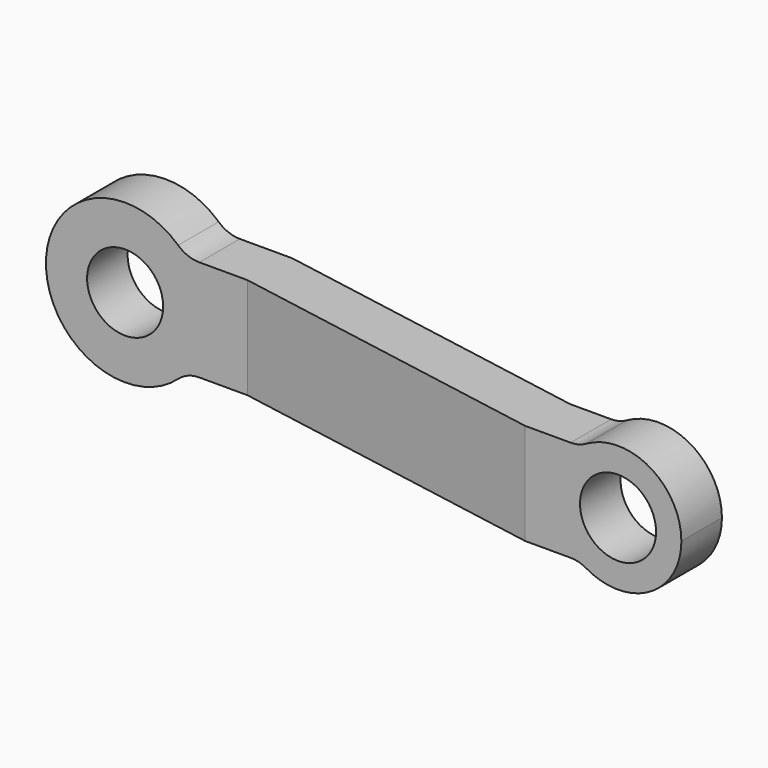
from build123d import *

# Parameters (mm, degrees)
F0_R     = 6
F1_DEPTH = 25
F3_DEPTH = 12.5
F4_R     = 5


with BuildPart() as f1:
    # F0 (on Front) → F1 (new body)
    with BuildSketch(Plane.XZ):
        with BuildLine():
            ThreePointArc((9.604686, -8), (11.753905, -4.253905), (12.5, 0))
            ThreePointArc((12.5, 0), (11.753905, 4.253905), (9.604686, 8))
            ThreePointArc((9.604686, 8), (-12.5, 0), (9.604686, -8))
        make_face()
        Circle(F0_R, mode=Mode.SUBTRACT)
        with BuildLine():
            ThreePointArc((9.604686, 8), (11.753905, 4.253905), (12.5, 0))
            ThreePointArc((12.5, 0), (11.753905, -4.253905), (9.604686, -8))
            Line((9.604686, -8), (79, -8))
            ThreePointArc((79, -8), (75, 0), (79, 8))
            Line((79, 8), (9.604686, 8))
        make_face()
        with BuildLine():
            ThreePointArc((95, 0), (89.472136, 8.944272), (79, 8))
            ThreePointArc((79, 8), (75, 0), (79, -8))
            ThreePointArc((79, -8), (89.472136, -8.944272), (95, 0))
        make_face()
        with Locations((85, 0)):
            Circle(F0_R, mode=Mode.SUBTRACT)
    extrude(amount=F1_DEPTH)

    # F2 (on Top) → F3 (intersect, symmetric)
    with BuildSketch(Plane.XY):
        Polygon((20, 0), (-12.5, 0), (-12.5, -8), (19.300091, -8), (70.341627, -17), (95, -17), (95, -9), (71.041536, -9), align=None)
    extrude(amount=F3_DEPTH, both=True, mode=Mode.INTERSECT)

    # F4
    f4_edges = [f1.edges().sort_by_distance(p)[0] for p in [
        (79, -13, 8),
        (9.604686, -4, 8),
        (79, -13, -8),
        (9.604686, -4, -8),
    ]]
    fillet(f4_edges, radius=F4_R)


solid = f1.part
